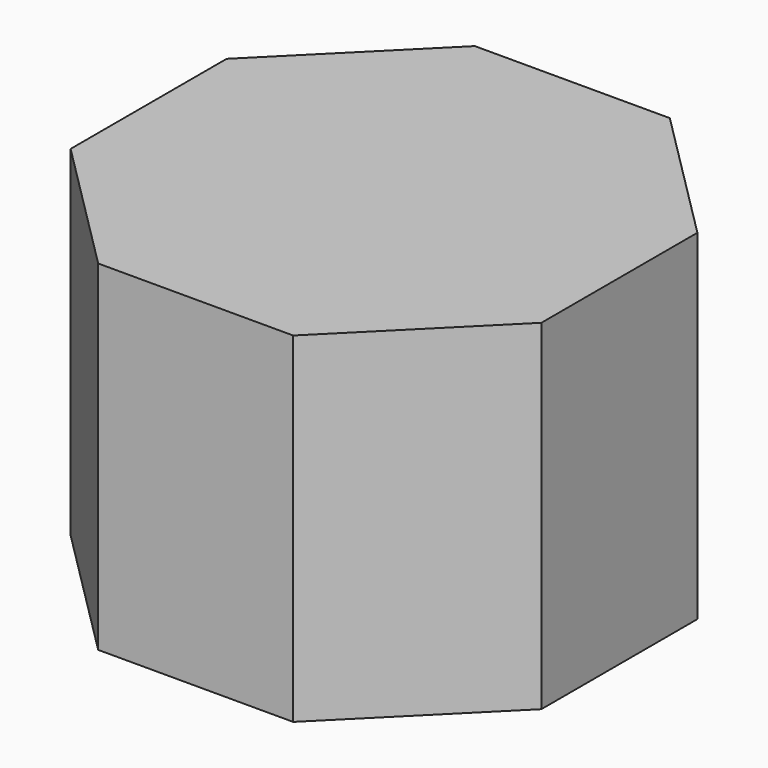
from build123d import *

# Parameters (mm, degrees)
F1_DEPTH = 25.4
F3_DEPTH = 25.4


with BuildPart() as f1:
    # F0 (on Top) → F1 (new body)
    with BuildSketch(Plane.XY):
        Polygon((17.57632, -7.28035), (17.57632, 7.28035), (7.28035, 17.57632), (-7.28035, 17.57632), (-17.57632, 7.28035), (-17.57632, -7.28035), (-7.28035, -17.57632), (7.28035, -17.57632), align=None)
    extrude(amount=F1_DEPTH)

    # F2 (on Top) → F3 (join)
    with BuildSketch(Plane.XY):
        Polygon((14.142192, -0.699994), (9.36479, 10.620372), (-2.46449, 13.943381), (-12.437959, 6.76674), (-13.045391, -5.505394), (-3.829378, -13.631854), (8.270235, -11.49325), align=None)
    extrude(amount=F3_DEPTH)


solid = f1.part
